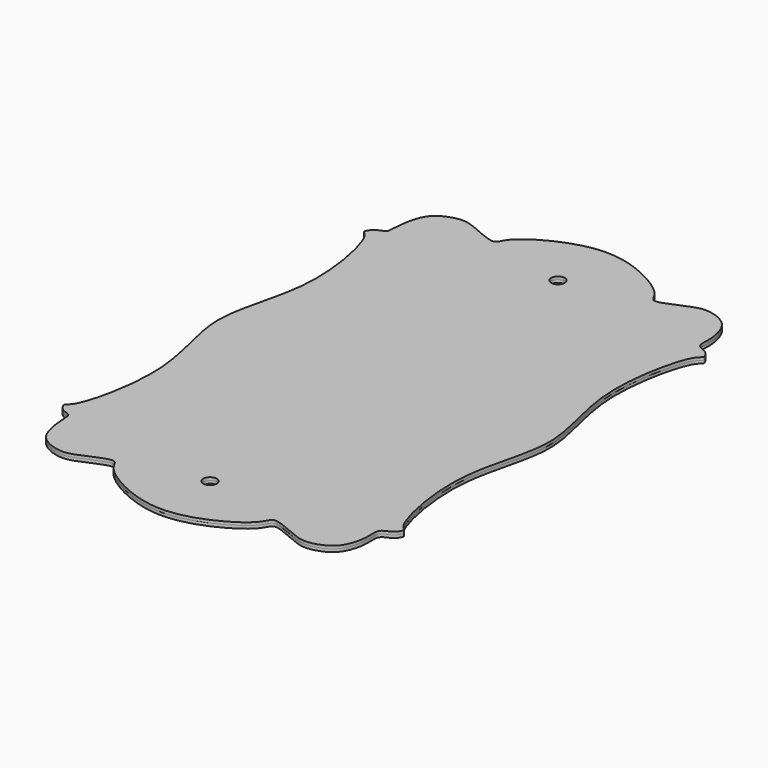
from build123d import *

# Parameters (mm, degrees)
F0_R     = 6
F1_DEPTH = 2.5


with BuildPart() as f1:
    # F0 (on Top) → F1 (new body, symmetric)
    with BuildSketch(Plane.XY):
        with BuildLine():
            add(Edge.make_bspline(
                [(-146.48172, 0), (-146.48172, 25.4478153819), (-122.5467325745, 75.678158022), (-141.5791277863, 161.5954978407), (-150.9725570258, 165.244016864), (-149.8414871478, 167.931445087), (-146.8828805914, 173.134693532), (-139.5384022991, 174.9752703775), (-137.3853538588, 177.2925586054), (-137.3838373596, 190.1519040409), (-133.2845158848, 211.3766015223), (-119.9014584444, 219.6853062402), (-106.8270023644, 222.5142095845), (-95.4638608233, 219.1897380057), (-72.9074034574, 208.324201111), (-68.88825128, 211.5557632932), (-66.978464727, 214.9676927601), (-60.8974388018, 225.9400648682), (-1.16807e-05, 260.581099675), (60.89747164, 225.9400554088), (66.9784285598, 214.9677039291), (68.8883246138, 211.5557405344), (72.9069082139, 208.324354886), (95.4683645376, 219.1883394976), (106.8154131797, 222.5178083021), (119.9454566233, 219.6716437565), (133.0860078368, 211.438243005), (138.1981443915, 189.8990422884), (135.2946940658, 175.9692044489), (146.9081170888, 173.3837837124), (149.8145140132, 167.9418781187), (150.9826656424, 165.240108017), (141.5657505805, 161.6006525105), (122.5524359182, 75.6762541385), (158.6048306843, 0), (122.5524359182, -75.6762541385), (141.5657505805, -161.6006525105), (150.9826656424, -165.240108017), (149.8145140132, -167.9418781187), (146.9081170888, -173.3837837124), (135.2946940658, -175.9692044489), (138.1981443915, -189.8990422884), (133.0860078368, -211.438243005), (119.9454566233, -219.6716437565), (106.8154131797, -222.5178083021), (95.4683645376, -219.1883394976), (72.9069082139, -208.324354886), (68.8883246138, -211.5557405344), (66.9784285598, -214.9677039291), (60.89747164, -225.9400554088), (-1.16807e-05, -260.581099675), (-60.8974388018, -225.9400648682), (-66.978464727, -214.9676927601), (-68.88825128, -211.5557632932), (-72.9074034574, -208.324201111), (-95.4638608233, -219.1897380057), (-106.8270023644, -222.5142095845), (-119.9014584444, -219.6853062402), (-133.2845158848, -211.3766015223), (-137.3838373596, -190.1519040409), (-137.3853538588, -177.2925586054), (-139.5384022991, -174.9752703775), (-146.8828805914, -173.134693532), (-149.8414871478, -167.931445087), (-150.9725570258, -165.244016864), (-141.5791277863, -161.5954978407), (-122.5467325745, -75.678158022), (-146.48172, -25.4478153819), (-146.48172, 0)],
                knots=[0, 0, 0, 0, 0.0341655307, 0.0674378641, 0.0765384861, 0.0817683397, 0.0908163485, 0.1008025352, 0.1067758727, 0.1197328544, 0.1370494884, 0.1513548064, 0.1644054957, 0.1778180472, 0.1959949985, 0.2032359734, 0.2099960741, 0.2221795566, 0.2522129485, 0.2822463404, 0.2944298229, 0.3011899235, 0.3084308985, 0.3266078498, 0.3400204013, 0.3530710906, 0.3673764086, 0.3846930426, 0.3976500243, 0.4091836515, 0.4182316603, 0.4234615139, 0.4325621359, 0.4658344693, 0.5, 0.5341655307, 0.5674378641, 0.5765384861, 0.5817683397, 0.5908163485, 0.6023499757, 0.6153069574, 0.6326235914, 0.6469289094, 0.6599795987, 0.6733921502, 0.6915691015, 0.6988100765, 0.7055701771, 0.7177536596, 0.7477870515, 0.7778204434, 0.7900039259, 0.7967640266, 0.8040050015, 0.8221819528, 0.8355945043, 0.8486451936, 0.8629505116, 0.8802671456, 0.8932241273, 0.8991974648, 0.9091836515, 0.9182316603, 0.9234615139, 0.9325621359, 0.9658344693, 1, 1, 1, 1], degree=3))
        make_face()
        with Locations((0, -192.5)):
            Circle(F0_R, mode=Mode.SUBTRACT)
        with Locations((0, 192.5)):
            Circle(F0_R, mode=Mode.SUBTRACT)
    extrude(amount=F1_DEPTH, both=True)


solid = f1.part
